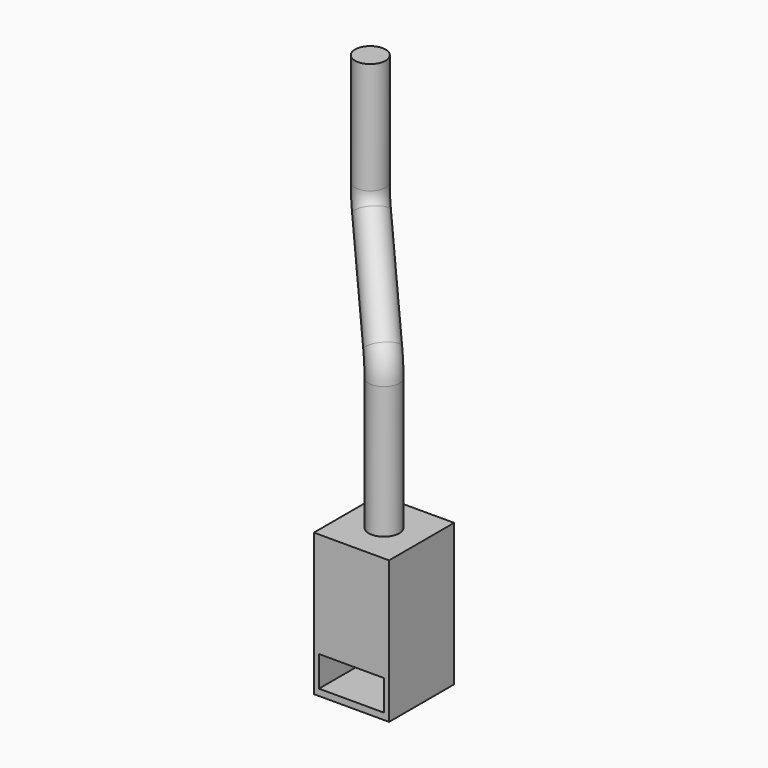
from build123d import *

# Parameters (mm, degrees)
F0_W     = 370
F0_H     = 700
F1_DEPTH = 200
F5_R     = 75
F7_W     = 320
F7_H     = 150
F8_DEPTH = 300


with BuildPart() as f1:
    # F0 (on Front) → F1 (new body, symmetric)
    with BuildSketch(Plane.XZ):
        Rectangle(F0_W, F0_H)
    extrude(amount=F1_DEPTH, both=True)

    # F6: sweep along a path in F4
    with BuildLine(Plane(origin=(0, 0, 0), x_dir=(0.7071067812, -0.7071067812, 0), z_dir=(-0.7071067812, -0.7071067812, 0))) as f6_path:
        Line((0, 350), (0, 1000))
        ThreePointArc((0, 1000), (-11.4180701233, 1057.4025148548), (-43.933982822, 1106.066017178))
        Line((-43.933982822, 1106.066017178), (-432.8427124746, 1494.9747468306))
        ThreePointArc((-432.8427124746, 1494.9747468306), (-465.3586251733, 1543.6382491538), (-476.7766952966, 1601.0407640086))
        Line((-476.7766952966, 1601.0407640086), (-476.7766952966, 2151.0407640086))
    # F5 (on face) → F6 (sweep)
    with BuildSketch(Plane.XY.offset(350)):
        Circle(F5_R)
    sweep(path=f6_path.line)

    # F7 (on face) → F8 (cut)
    with BuildSketch(Plane.XZ.offset(200)):
        with Locations((0, -243.052563668)):
            Rectangle(F7_W, F7_H)
    extrude(amount=-F8_DEPTH, mode=Mode.SUBTRACT)


solid = f1.part
